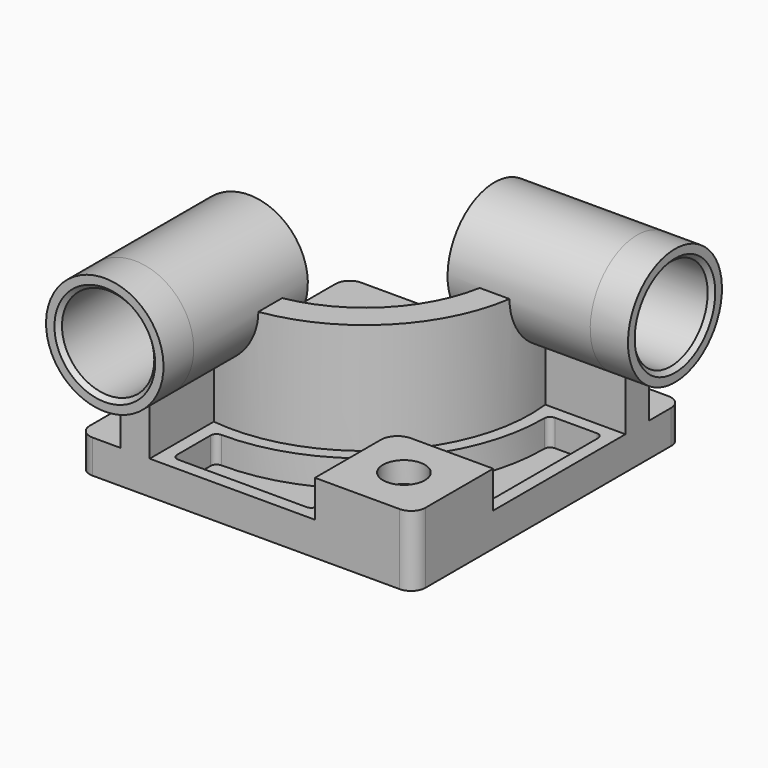
from build123d import *

# Parameters (mm, degrees)
F0_W            = 101.6
F0_H            = 101.6
F1_DEPTH        = 10.16
F3_DEPTH        = 33.528
F5_DEPTH        = 11.43
F5_DEPTH_BACK   = 43.18
F7_DEPTH        = 11.43
F7_DEPTH_BACK   = 43.18
F8_W            = 29.972
F8_H            = 29.972
F9_DEPTH        = 11.176
F10_R           = 5.08
F12_DEPTH       = 8.128
F14_D           = 7.62
F14_CBORE_D     = 12.7
F14_CBORE_DEPTH = 6.35
F15_R           = 1.778
F16_R           = 13.97
F17_DEPTH       = 86.868
F18_R           = 13.97
F19_DEPTH       = 107.696
F20_SIZE        = 1.27
F21_R           = 4.318


with BuildPart() as f1:
    # F0 (on Top) → F1 (new body)
    with BuildSketch(Plane.XY):
        Rectangle(F0_W, F0_H)
    extrude(amount=F1_DEPTH)

    # F2 (on face) → F3 (join)
    with BuildSketch(Plane.XY.offset(10.16)):
        with BuildLine():
            Line((-38.1, -15.24), (-38.1, -50.8))
            Line((-38.1, -50.8), (-29.2099993676, -50.8))
            Line((-29.2099993676, -50.8), (-29.2099993676, -26.5417011038))
            ThreePointArc((-29.2099993676, -26.5417011038), (12.2116619609, -12.2116619609), (26.5417011038, 29.2099993676))
            Line((26.5417011038, 29.2099993676), (50.8, 29.2099993676))
            Line((50.8, 29.2099993676), (50.8, 38.1))
            Line((50.8, 38.1), (15.24, 38.1))
            ThreePointArc((15.24, 38.1), (5.9254822289, -5.9254822289), (-38.1, -15.24))
        make_face()
    extrude(amount=F3_DEPTH)

    # F4 (on face) → F5 (join, two sides)
    with BuildSketch(Plane.XZ.offset(50.8)) as f5_sk:
        with BuildLine():
            ThreePointArc((-29.2099993676, 26.4725891078), (-19.5986753844, 32.8000182224), (-15.8749996838, 43.688))
            ThreePointArc((-15.8749996838, 43.688), (-44.5429814614, 57.7443242994), (-38.1, 26.4725891078))
            Line((-38.1, 26.4725891078), (-38.1, 43.688))
            Line((-38.1, 43.688), (-29.2099993676, 43.688))
            Line((-29.2099993676, 43.688), (-29.2099993676, 26.4725891078))
        make_face()
        with BuildLine():
            Line((-38.1, 43.688), (-38.1, 26.4725891078))
            ThreePointArc((-38.1, 26.4725891078), (-33.6549996838, 25.908), (-29.2099993676, 26.4725891078))
            Line((-29.2099993676, 26.4725891078), (-29.2099993676, 43.688))
            Line((-29.2099993676, 43.688), (-38.1, 43.688))
        make_face()
    extrude(amount=F5_DEPTH)
    extrude(f5_sk.sketch, amount=-F5_DEPTH_BACK)

    # F6 (on face) → F7 (join, two sides)
    with BuildSketch(Plane.YZ.offset(50.8)) as f7_sk:
        with BuildLine():
            ThreePointArc((38.1, 26.4725891078), (47.7113239832, 32.8000182224), (51.4349996838, 43.688))
            ThreePointArc((51.4349996838, 43.688), (22.7670179062, 57.7443242994), (29.2099993676, 26.4725891078))
            Line((29.2099993676, 26.4725891078), (29.2099993676, 43.688))
            Line((29.2099993676, 43.688), (38.1, 43.688))
            Line((38.1, 43.688), (38.1, 26.4725891078))
        make_face()
        with BuildLine():
            Line((29.2099993676, 43.688), (29.2099993676, 26.4725891078))
            ThreePointArc((29.2099993676, 26.4725891078), (33.6549996838, 25.908), (38.1, 26.4725891078))
            Line((38.1, 26.4725891078), (38.1, 43.688))
            Line((38.1, 43.688), (29.2099993676, 43.688))
        make_face()
    extrude(amount=F7_DEPTH)
    extrude(f7_sk.sketch, amount=-F7_DEPTH_BACK)

    # F8 (on face) → F9 (join)
    with BuildSketch(Plane.XY.offset(10.16)):
        with Locations((35.814, -35.814)):
            Rectangle(F8_W, F8_H)
    extrude(amount=F9_DEPTH)

    # F10
    f10_edges = [f1.edges().sort_by_distance(p)[0] for p in [
        (20.828, -20.828, 15.748),
    ]]
    fillet(f10_edges, radius=F10_R)

    # F11 (on face) → F12 (cut)
    with BuildSketch(Plane.XY.offset(10.16)):
        with BuildLine():
            ThreePointArc((30.6647931111, 25.3999990791), (14.9057390012, -14.9057390012), (-25.3999990791, -30.6647931111))
            Line((-25.3999990791, -30.6647931111), (-25.3999990791, -46.9899997115))
            Line((-25.3999990791, -46.9899997115), (17.0179997115, -46.9899997115))
            Line((17.0179997115, -46.9899997115), (17.0179997115, -25.908))
            ThreePointArc((17.0179997115, -25.908), (19.6218205113, -19.6218205113), (25.908, -17.0179997115))
            Line((25.908, -17.0179997115), (46.9899997115, -17.0179997115))
            Line((46.9899997115, -17.0179997115), (46.9899997115, 25.3999990791))
            Line((46.9899997115, 25.3999990791), (30.6647931111, 25.3999990791))
        make_face()
    extrude(amount=-F12_DEPTH, mode=Mode.SUBTRACT)

    # F14 (through all)
    with Locations(Plane.XY.offset(21.336)):
        with Locations((35.56, -35.56)):
            CounterBoreHole(F14_D / 2, F14_CBORE_D / 2, F14_CBORE_DEPTH)

    # F15
    f15_edges = [f1.edges().sort_by_distance(p)[0] for p in [
        (-25.399999, -46.99, 6.096),
        (-25.399999, -30.664793, 6.096),
        (30.664793, 25.399999, 6.096),
        (46.99, 25.399999, 6.096),
        (46.99, -17.018, 6.096),
        (17.018, -46.99, 6.096),
    ]]
    fillet(f15_edges, radius=F15_R)

    # F16 (on face) → F17 (cut)
    with BuildSketch(Plane.XZ.offset(62.23)):
        with Locations((-33.6549996838, 43.688)):
            Circle(F16_R)
    extrude(amount=-F17_DEPTH, mode=Mode.SUBTRACT)

    # F18 (on face) → F19 (cut)
    with BuildSketch(Plane.YZ.offset(62.23)):
        with Locations((33.6549996838, 43.688)):
            Circle(F18_R)
    extrude(amount=-F19_DEPTH, mode=Mode.SUBTRACT)

    # F20
    f20_edges = [f1.edges().sort_by_distance(p)[0] for p in [
        (62.23, 19.685, 43.688),
        (-47.625, -62.23, 43.688),
        (7.62, 19.685, 43.688),
        (-47.625, -7.62, 43.688),
    ]]
    chamfer(f20_edges, length=F20_SIZE)

    # F21
    f21_edges = [f1.edges().sort_by_distance(p)[0] for p in [
        (50.8, -50.8, 10.668),
        (50.8, 50.8, 5.08),
        (-50.8, 50.8, 5.08),
        (-50.8, -50.8, 5.08),
    ]]
    fillet(f21_edges, radius=F21_R)


solid = f1.part
